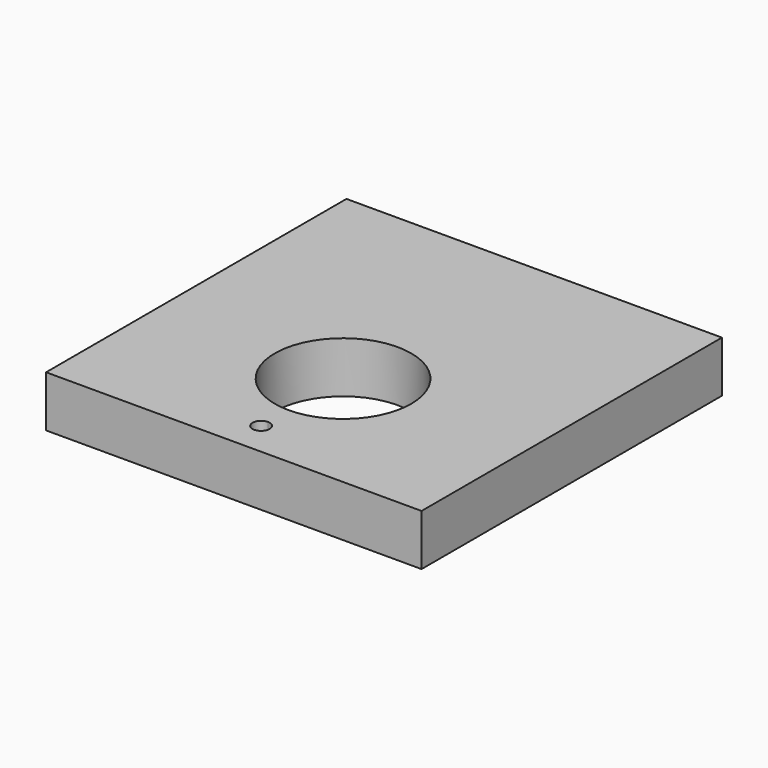
from build123d import *

# Parameters (mm, degrees)
F1_DEPTH = 19.05


with BuildPart() as f1:
    # F0 (on Top) → F1 (new body)
    with BuildSketch(Plane.XY):
        with BuildLine():
            ThreePointArc((25.4, -19.05), (-17.960512, -1.089488), (0, -44.45))
            ThreePointArc((0, -44.45), (17.960512, -37.010512), (25.4, -19.05))
        make_face()
        Polygon((-69.85, 69.85), (-69.85, -69.85), (0, -69.85), (69.85, -69.85), (69.85, 69.85), align=None)
        with BuildLine():
            ThreePointArc((3.175, -57.15), (2.245064, -59.395064), (0, -60.325))
            ThreePointArc((0, -60.325), (-3.175, -57.15), (0, -53.975))
            ThreePointArc((0, -53.975), (2.245064, -54.904936), (3.175, -57.15))
        make_face(mode=Mode.SUBTRACT)
        with BuildLine():
            ThreePointArc((25.4, -19.05), (17.960512, -37.010512), (0, -44.45))
            ThreePointArc((0, -44.45), (-17.960512, -1.089488), (25.4, -19.05))
        make_face(mode=Mode.SUBTRACT)
    extrude(amount=F1_DEPTH)


solid = f1.part
